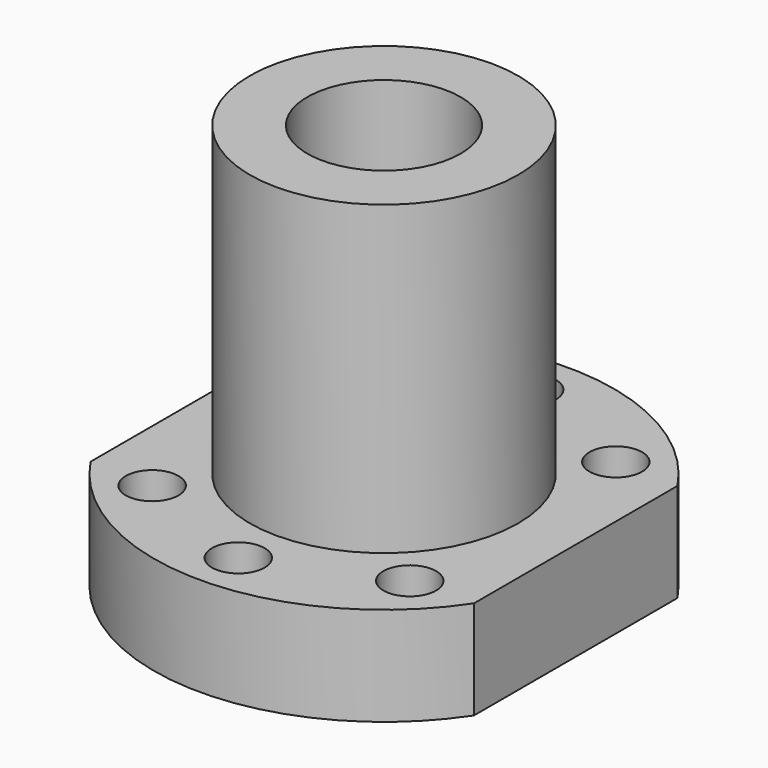
from build123d import *

# Parameters (mm, degrees)
F0_R     = 2.75
F0_R_2   = 14
F0_R_3   = 8
F1_DEPTH = 10.3
F2_DEPTH = 42.3


with BuildPart() as f1:
    # F0 (on Top) → F1 (new body)
    with BuildSketch(Plane.XY):
        with BuildLine():
            Line((-20, 13.266499), (-20, -13.266499))
            ThreePointArc((-20, -13.266499), (0, -24), (20, -13.266499))
            Line((20, -13.266499), (20, 13.266499))
            ThreePointArc((20, 13.266499), (0, 24), (-20, 13.266499))
        make_face()
        with Locations((-13.435029, -13.435029)):
            Circle(F0_R, mode=Mode.SUBTRACT)
        with Locations((0, -19)):
            Circle(F0_R, mode=Mode.SUBTRACT)
        with Locations((13.435029, -13.435029)):
            Circle(F0_R, mode=Mode.SUBTRACT)
        with Locations((-13.435029, 13.435029)):
            Circle(F0_R, mode=Mode.SUBTRACT)
        Circle(F0_R_2, mode=Mode.SUBTRACT)
        with Locations((0, 19)):
            Circle(F0_R, mode=Mode.SUBTRACT)
        with Locations((13.435029, 13.435029)):
            Circle(F0_R, mode=Mode.SUBTRACT)
        Circle(F0_R_2)
        Circle(F0_R_3, mode=Mode.SUBTRACT)
    extrude(amount=F1_DEPTH)

    # F0 (on Top) → F2 (join)
    with BuildSketch(Plane.XY):
        Circle(F0_R_2)
        Circle(F0_R_3, mode=Mode.SUBTRACT)
    extrude(amount=F2_DEPTH)


solid = f1.part
